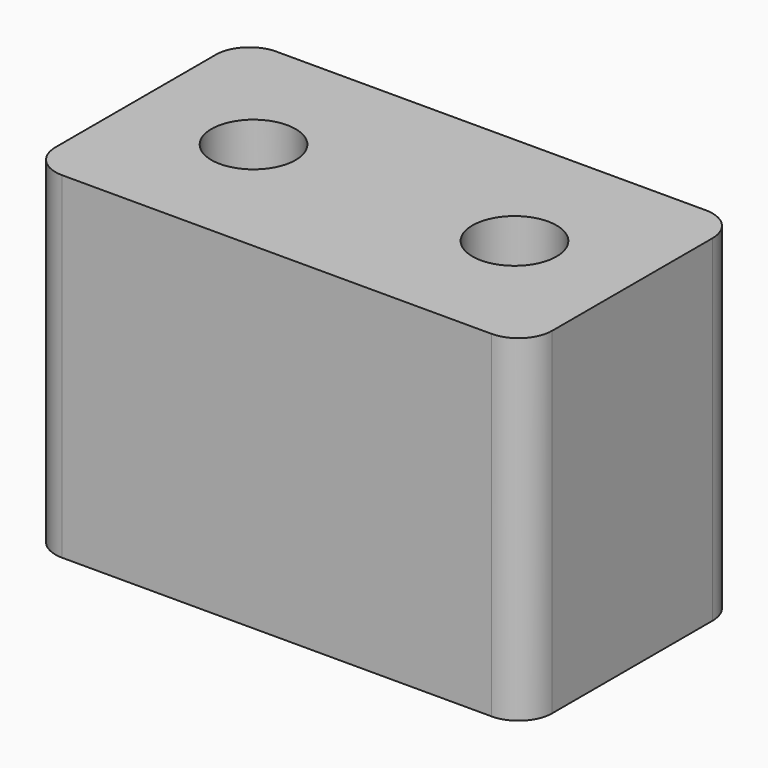
from build123d import *

# Parameters (mm, degrees)
F0_W     = 37.465
F0_H     = 20.193
F1_DEPTH = 25.4
F3_DEPTH = 10.16
F4_R     = 2.54


with BuildPart() as f1:
    # F0 (on Top) → F1 (new body)
    with BuildSketch(Plane.XY):
        with Locations((-12.5743107353, -6.7907468112)):
            Rectangle(F0_W, F0_H)
    extrude(amount=F1_DEPTH)

    # F2 (on face) → F3 (cut)
    with BuildSketch(Plane.XY.offset(25.4)):
        with BuildLine():
            ThreePointArc((-25.5918107353, -6.7907468112), (-22.4168107353, -9.9657468112), (-19.2418107353, -6.7907468112))
            Line((-19.2418107353, -6.7907468112), (-25.5918107353, -6.7907468112))
        make_face()
        with BuildLine():
            Line((-25.5918107353, -6.7907468112), (-19.2418107353, -6.7907468112))
            ThreePointArc((-19.2418107353, -6.7907468112), (-22.4168107353, -3.6157468112), (-25.5918107353, -6.7907468112))
        make_face()
        with BuildLine():
            Line((-5.9068107353, -6.7907468112), (0.4431892647, -6.7907468112))
            ThreePointArc((0.4431892647, -6.7907468112), (-2.7318107353, -3.6157468112), (-5.9068107353, -6.7907468112))
        make_face()
        with BuildLine():
            ThreePointArc((-5.9068107353, -6.7907468112), (-2.7318107353, -9.9657468112), (0.4431892647, -6.7907468112))
            Line((0.4431892647, -6.7907468112), (-5.9068107353, -6.7907468112))
        make_face()
    extrude(amount=-F3_DEPTH, mode=Mode.SUBTRACT)

    # F4
    f4_edges = [f1.edges().sort_by_distance(p)[0] for p in [
        (-31.306811, -16.887247, 12.7),
        (6.158189, -16.887247, 12.7),
        (6.158189, 3.305753, 12.7),
        (-31.306811, 3.305753, 12.7),
    ]]
    fillet(f4_edges, radius=F4_R)


solid = f1.part
